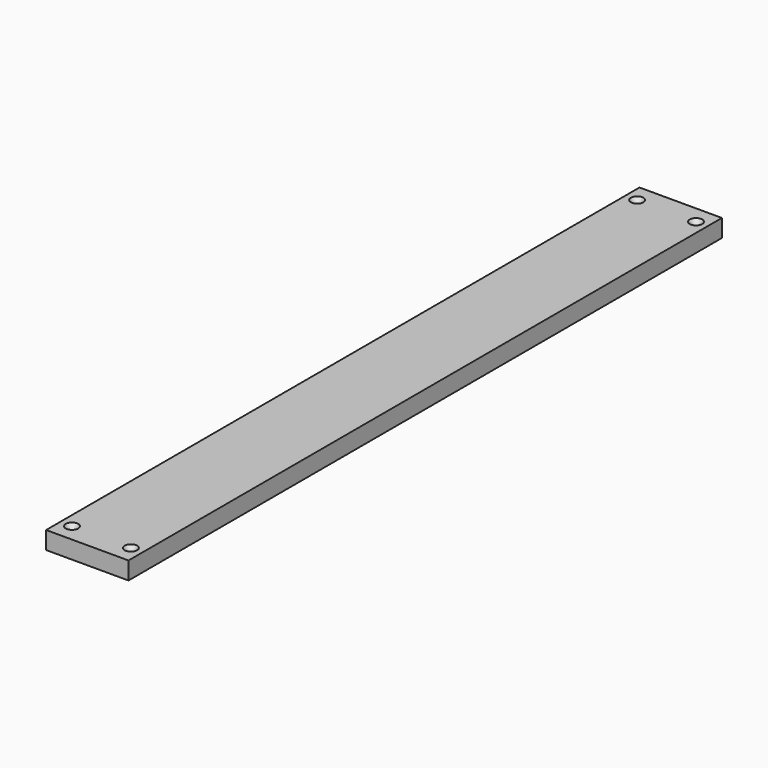
from build123d import *

# Parameters (mm, degrees)
F0_W           = 88.9
F0_H           = 19.05
F1_DEPTH       = 184.15
F3_D           = 4.9149
F3_CSINK_D     = 13.4874
F3_CSINK_ANGLE = 82
F4_DEPTH       = 400.05
F6_D           = 5.0546
F6_CSINK_D     = 13.4874
F6_CSINK_ANGLE = 82


with BuildPart() as f1:
    # F0 (on Front) → F1 (new body, symmetric)
    with BuildSketch(Plane.XZ):
        Rectangle(F0_W, F0_H)
    extrude(amount=F1_DEPTH, both=True)

    # F3 (through all)
    with Locations(Plane.XY.offset(9.525)):
        with Locations((-25.4, -146.05), (25.4, -146.05), (-25.4, 146.05), (25.4, 146.05)):
            CounterSinkHole(F3_D / 2, F3_CSINK_D / 2, counter_sink_angle=F3_CSINK_ANGLE)


with BuildPart() as f4:
    # F0 (on Front) → F4 (new body, symmetric)
    with BuildSketch(Plane.XZ):
        Rectangle(F0_W, F0_H)
    extrude(amount=F4_DEPTH, both=True)

    # F6 (through all)
    with Locations(Plane.XY.offset(9.525)):
        with Locations((-31.75, -381), (31.75, -381), (-31.75, 381), (31.75, 381)):
            CounterSinkHole(F6_D / 2, F6_CSINK_D / 2, counter_sink_angle=F6_CSINK_ANGLE)


solid = Compound([f1.part, f4.part])
